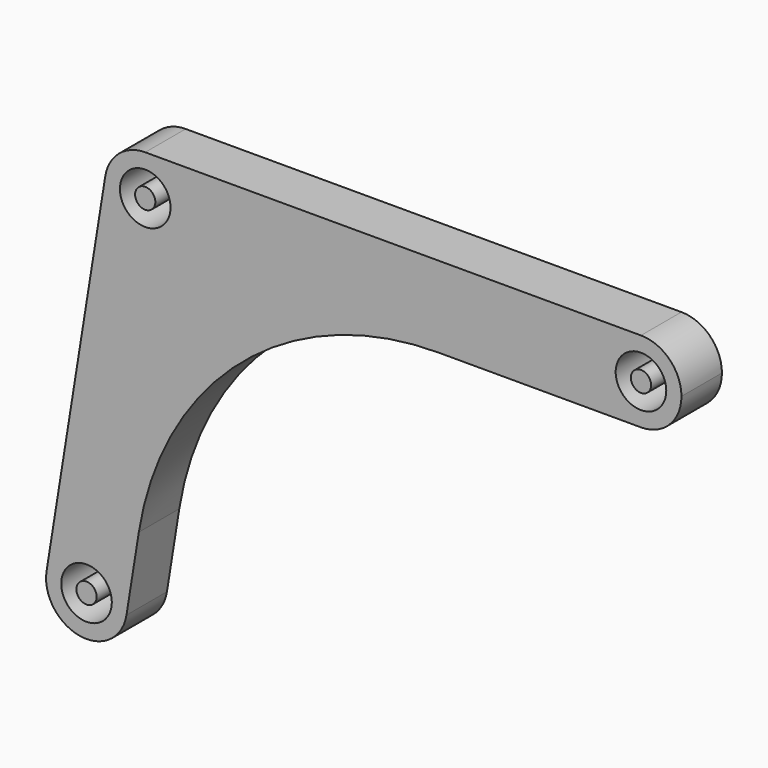
from build123d import *

# Parameters (mm, degrees)
F0_R     = 2.5
F0_R_2   = 1
F1_DEPTH = 5


with BuildPart() as f1:
    # F0 (on Front) → F1 (new body)
    with BuildSketch(Plane.XZ):
        with BuildLine():
            ThreePointArc((3.949696, -0.632375), (3.987404, -0.317186), (4, 0))
            ThreePointArc((4, 0), (0.317186, 3.987404), (-3.949696, 0.632375))
            ThreePointArc((-3.949696, 0.632375), (-0.632375, -3.949696), (3.949696, -0.632375))
        make_face()
        Circle(F0_R, mode=Mode.SUBTRACT)
        with BuildLine():
            ThreePointArc((-3.949696, 0.632375), (0.317186, 3.987404), (4, 0))
            ThreePointArc((4, 0), (3.987404, -0.317186), (3.949696, -0.632375))
            Line((3.949696, -0.632375), (5.168697, 6.981277))
            ThreePointArc((5.168697, 6.981277), (15.32715, 25.067004), (34.791421, 32.238465))
            Line((34.791421, 32.238465), (54.802041, 32.238465))
            ThreePointArc((54.802041, 32.238465), (50.802041, 36.238465), (54.802041, 40.238465))
            Line((54.802041, 40.238465), (5.802041, 40.238465))
            ThreePointArc((5.802041, 40.238465), (8.630468, 39.066892), (9.802041, 36.238465))
            ThreePointArc((9.802041, 36.238465), (5.484855, 32.25106), (1.852344, 36.87084))
            Line((1.852344, 36.87084), (-3.949696, 0.632375))
        make_face()
        with BuildLine():
            ThreePointArc((5.802041, 40.238465), (3.206805, 39.28227), (1.852344, 36.87084))
            ThreePointArc((1.852344, 36.87084), (5.484855, 32.25106), (9.802041, 36.238465))
            ThreePointArc((9.802041, 36.238465), (8.630468, 39.066892), (5.802041, 40.238465))
        make_face()
        with Locations((5.802041, 36.238465)):
            Circle(F0_R, mode=Mode.SUBTRACT)
        with BuildLine():
            ThreePointArc((58.802041, 36.238465), (57.630468, 39.066892), (54.802041, 40.238465))
            ThreePointArc((54.802041, 40.238465), (50.802041, 36.238465), (54.802041, 32.238465))
            ThreePointArc((54.802041, 32.238465), (57.630468, 33.410038), (58.802041, 36.238465))
        make_face()
        with Locations((54.802041, 36.238465)):
            Circle(F0_R, mode=Mode.SUBTRACT)
        with Locations((5.802041, 36.238465)):
            Circle(F0_R_2)
        Circle(F0_R_2)
        with Locations((54.802041, 36.238465)):
            Circle(F0_R_2)
    extrude(amount=F1_DEPTH)


solid = f1.part
